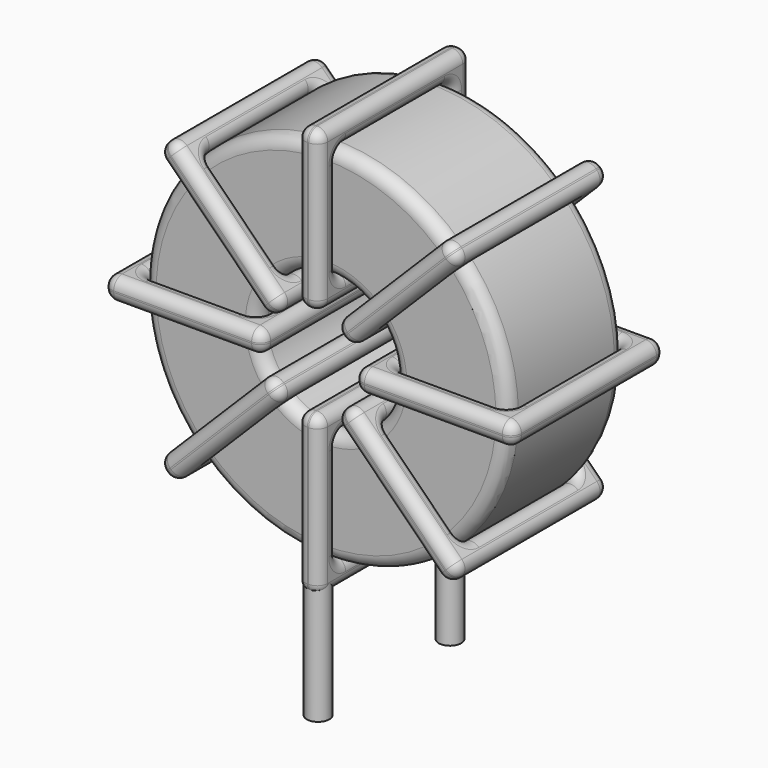
from build123d import *

# Parameters (mm, degrees)
SKETCH001_R       = 0.45
PAD001_DEPTH      = 0.9
PAD001_DEPTH_BACK = 4.4
SKETCH_R          = 7.3
SKETCH_R_2        = 2.733333
PAD_DEPTH         = 2.9
FILLET_R          = 0.5
SKETCH003_W       = 6.366667
SKETCH003_H       = 7.6
SKETCH003_W_2     = 4.566667
SKETCH003_H_2     = 5.8
PAD002_DEPTH      = 0.45
FILLET001_R       = 0.423
SKETCH004_W       = 6.366667
SKETCH004_H       = 7.6
SKETCH004_W_2     = 4.566667
SKETCH004_H_2     = 5.8
PAD003_DEPTH      = 0.45
FILLET002_R       = 0.423
SKETCH005_W       = 6.366667
SKETCH005_H       = 7.6
SKETCH005_W_2     = 4.566667
SKETCH005_H_2     = 5.8
PAD004_DEPTH      = 0.45
FILLET003_R       = 0.423
SKETCH006_W       = 6.366667
SKETCH006_H       = 7.6
SKETCH006_W_2     = 4.566667
SKETCH006_H_2     = 5.8
PAD005_DEPTH      = 0.45
FILLET004_R       = 0.423


with BuildPart() as pad001:
    # Sketch001 → Pad001 (new body, two sides)
    with BuildSketch(Plane.XY.offset(1.4)) as pad001_sk:
        Circle(SKETCH001_R)
        with Locations((0, -6.6)):
            Circle(SKETCH001_R)
    extrude(amount=PAD001_DEPTH)
    extrude(pad001_sk.sketch, amount=-PAD001_DEPTH_BACK)


with BuildPart() as fillet_body:
    # Sketch → Pad (new body, symmetric)
    with BuildSketch(Plane.XZ.offset(3.3)):
        with Locations((0, 9.6)):
            Circle(SKETCH_R)
        with Locations((0, 9.6)):
            Circle(SKETCH_R_2, mode=Mode.SUBTRACT)
    extrude(amount=PAD_DEPTH, both=True)

    # Fillet
    fillet_edges = [fillet_body.edges().sort_by_distance(p)[0] for p in [
        (-2.733333, -6.2, 9.6),
        (-7.3, -6.2, 9.6),
        (-7.3, -0.4, 9.6),
    ]]
    fillet(fillet_edges, radius=FILLET_R)


with BuildPart() as fillet001:
    # Sketch003 → Pad002 (new body, symmetric)
    with BuildSketch(Plane(origin=(0, 0.5, 9.6), x_dir=(1, 0, 0), z_dir=(0, 0, -1))):
        with Locations((-5.016666, 3.8)):
            Rectangle(SKETCH003_W, SKETCH003_H)
        with Locations((-5.016666, 3.8)):
            Rectangle(SKETCH003_W_2, SKETCH003_H_2, mode=Mode.SUBTRACT)
        with Locations((5.016666, 3.8)):
            Rectangle(SKETCH003_W, SKETCH003_H)
        with Locations((5.016666, 3.8)):
            Rectangle(SKETCH003_W_2, SKETCH003_H_2, mode=Mode.SUBTRACT)
    extrude(amount=PAD002_DEPTH, both=True)

    # Fillet001
    fillet001_edges = [fillet001.edges().sort_by_distance(p)[0] for p in [
        (-2.733333, -6.2, 9.6),
        (-2.733333, -0.4, 9.6),
        (-2.733333, -3.3, 10.05),
        (-2.733333, -3.3, 9.15),
        (-8.2, -7.1, 9.6),
        (-1.833333, -7.1, 9.6),
        (-5.016667, -7.1, 10.05),
        (-5.016667, -7.1, 9.15),
        (-1.833333, 0.5, 9.6),
        (-1.833333, -3.3, 10.05),
        (-1.833333, -3.3, 9.15),
        (2.733333, -6.2, 9.6),
        (7.3, -6.2, 9.6),
        (5.016667, -6.2, 10.05),
        (5.016667, -6.2, 9.15),
        (7.3, -0.4, 9.6),
        (7.3, -3.3, 10.05),
        (7.3, -3.3, 9.15),
        (1.833333, -7.1, 9.6),
        (8.2, -7.1, 9.6),
        (5.016667, -7.1, 10.05),
        (5.016667, -7.1, 9.15),
        (8.2, 0.5, 9.6),
        (8.2, -3.3, 10.05),
        (8.2, -3.3, 9.15),
        (-7.3, -6.2, 9.6),
        (-5.016667, -6.2, 10.05),
        (-5.016667, -6.2, 9.15),
        (2.733333, -0.4, 9.6),
        (2.733333, -3.3, 10.05),
        (2.733333, -3.3, 9.15),
        (5.016667, -0.4, 10.05),
        (5.016667, -0.4, 9.15),
        (1.833333, 0.5, 9.6),
        (5.016667, 0.5, 10.05),
        (5.016667, 0.5, 9.15),
        (1.833333, -3.3, 10.05),
        (1.833333, -3.3, 9.15),
        (-8.2, 0.5, 9.6),
        (-5.016667, 0.5, 10.05),
        (-5.016667, 0.5, 9.15),
        (-8.2, -3.3, 10.05),
        (-8.2, -3.3, 9.15),
        (-7.3, -0.4, 9.6),
        (-7.3, -3.3, 10.05),
        (-7.3, -3.3, 9.15),
        (-5.016667, -0.4, 10.05),
        (-5.016667, -0.4, 9.15),
    ]]
    fillet(fillet001_edges, radius=FILLET001_R)


with BuildPart() as fillet002:
    # Sketch004 → Pad003 (new body, symmetric)
    with BuildSketch(Plane(origin=(0, 0.5, 9.6), x_dir=(0.707108, 0, 0.707106), z_dir=(0.707106, 0, -0.707108))):
        with Locations((-5.016666, 3.8)):
            Rectangle(SKETCH004_W, SKETCH004_H)
        with Locations((-5.016666, 3.8)):
            Rectangle(SKETCH004_W_2, SKETCH004_H_2, mode=Mode.SUBTRACT)
        with Locations((5.016666, 3.8)):
            Rectangle(SKETCH004_W, SKETCH004_H)
        with Locations((5.016666, 3.8)):
            Rectangle(SKETCH004_W_2, SKETCH004_H_2, mode=Mode.SUBTRACT)
    extrude(amount=PAD003_DEPTH, both=True)

    # Fillet002
    fillet002_edges = [fillet002.edges().sort_by_distance(p)[0] for p in [
        (5.161885, -6.2, 14.761874),
        (5.161885, -0.4, 14.761874),
        (4.843688, -3.3, 15.080072),
        (5.480083, -3.3, 14.443675),
        (5.798282, 0.5, 15.398269),
        (1.296364, 0.5, 10.896361),
        (3.229125, 0.5, 13.465513),
        (3.865521, 0.5, 12.829116),
        (1.296364, -7.1, 10.896361),
        (0.978166, -3.3, 11.214559),
        (1.614562, -3.3, 10.578163),
        (-5.161885, -6.2, 4.438126),
        (-1.932761, -6.2, 7.667244),
        (-3.865521, -6.2, 6.370884),
        (-3.229125, -6.2, 5.734487),
        (-1.932761, -0.4, 7.667244),
        (-2.250958, -3.3, 7.985442),
        (-1.614563, -3.3, 7.349045),
        (-1.296364, 0.5, 8.303639),
        (-5.798282, 0.5, 3.801731),
        (-3.865521, 0.5, 6.370884),
        (-3.229125, 0.5, 5.734487),
        (-5.798282, -7.1, 3.801731),
        (-6.11648, -3.3, 4.11993),
        (-5.480085, -3.3, 3.483533),
        (1.932761, -6.2, 11.532756),
        (3.229125, -6.2, 13.465513),
        (3.865521, -6.2, 12.829116),
        (-5.161885, -0.4, 4.438126),
        (-5.480083, -3.3, 4.756325),
        (-4.843688, -3.3, 4.119928),
        (-3.865521, -0.4, 6.370884),
        (-3.229125, -0.4, 5.734487),
        (-1.296364, -7.1, 8.303639),
        (-3.865521, -7.1, 6.370884),
        (-3.229125, -7.1, 5.734487),
        (-1.614562, -3.3, 8.621837),
        (-0.978166, -3.3, 7.985441),
        (5.798282, -7.1, 15.398269),
        (3.229125, -7.1, 13.465513),
        (3.865521, -7.1, 12.829116),
        (5.480085, -3.3, 15.716467),
        (6.11648, -3.3, 15.08007),
        (1.932761, -0.4, 11.532756),
        (1.614563, -3.3, 11.850955),
        (2.250958, -3.3, 11.214558),
        (3.229125, -0.4, 13.465513),
        (3.865521, -0.4, 12.829116),
    ]]
    fillet(fillet002_edges, radius=FILLET002_R)


with BuildPart() as fillet003:
    # Sketch005 → Pad004 (new body, symmetric)
    with BuildSketch(Plane(origin=(0, 0.5, 9.6), x_dir=(0.707108, 0, -0.707106), z_dir=(-0.707106, 0, -0.707108))):
        with Locations((-5.016666, 3.8)):
            Rectangle(SKETCH005_W, SKETCH005_H)
        with Locations((-5.016666, 3.8)):
            Rectangle(SKETCH005_W_2, SKETCH005_H_2, mode=Mode.SUBTRACT)
        with Locations((5.016666, 3.8)):
            Rectangle(SKETCH005_W, SKETCH005_H)
        with Locations((5.016666, 3.8)):
            Rectangle(SKETCH005_W_2, SKETCH005_H_2, mode=Mode.SUBTRACT)
    extrude(amount=PAD004_DEPTH, both=True)

    # Fillet003
    fillet003_edges = [fillet003.edges().sort_by_distance(p)[0] for p in [
        (-5.161885, -6.2, 14.761874),
        (-1.932761, -0.4, 11.532756),
        (-3.229125, -0.4, 13.465513),
        (-3.865521, -0.4, 12.829116),
        (-5.798282, -7.1, 15.398269),
        (-5.798282, 0.5, 15.398269),
        (-5.480085, -3.3, 15.716467),
        (-6.11648, -3.3, 15.08007),
        (-1.296364, -7.1, 10.896361),
        (-3.229125, 0.5, 13.465513),
        (-3.865521, 0.5, 12.829116),
        (1.932761, -6.2, 7.667244),
        (5.161885, -6.2, 4.438126),
        (3.865521, -6.2, 6.370884),
        (3.229125, -6.2, 5.734487),
        (5.161885, -0.4, 4.438126),
        (5.480083, -3.3, 4.756325),
        (4.843688, -3.3, 4.119928),
        (1.296364, -7.1, 8.303639),
        (5.798282, -7.1, 3.801731),
        (3.865521, -7.1, 6.370884),
        (3.229125, -7.1, 5.734487),
        (5.798282, 0.5, 3.801731),
        (6.11648, -3.3, 4.11993),
        (5.480085, -3.3, 3.483533),
        (-5.161885, -0.4, 14.761874),
        (-4.843688, -3.3, 15.080072),
        (-5.480083, -3.3, 14.443675),
        (1.932761, -0.4, 7.667244),
        (2.250958, -3.3, 7.985442),
        (1.614563, -3.3, 7.349045),
        (3.865521, -0.4, 6.370884),
        (3.229125, -0.4, 5.734487),
        (1.296364, 0.5, 8.303639),
        (3.865521, 0.5, 6.370884),
        (3.229125, 0.5, 5.734487),
        (1.614562, -3.3, 8.621837),
        (0.978166, -3.3, 7.985441),
        (-1.296364, 0.5, 10.896361),
        (-0.978166, -3.3, 11.214559),
        (-1.614562, -3.3, 10.578163),
        (-3.229125, -7.1, 13.465513),
        (-3.865521, -7.1, 12.829116),
        (-1.932761, -6.2, 11.532756),
        (-3.229125, -6.2, 13.465513),
        (-3.865521, -6.2, 12.829116),
        (-1.614563, -3.3, 11.850955),
        (-2.250958, -3.3, 11.214558),
    ]]
    fillet(fillet003_edges, radius=FILLET003_R)


with BuildPart() as fillet004:
    # Sketch006 → Pad005 (new body, symmetric)
    with BuildSketch(Plane(origin=(0, 0.5, 9.6), x_dir=(0, 0, 1), z_dir=(1, 0, 0))):
        with Locations((-5.016666, 3.8)):
            Rectangle(SKETCH006_W, SKETCH006_H)
        with Locations((-5.016666, 3.8)):
            Rectangle(SKETCH006_W_2, SKETCH006_H_2, mode=Mode.SUBTRACT)
        with Locations((5.016666, 3.8)):
            Rectangle(SKETCH006_W, SKETCH006_H)
        with Locations((5.016666, 3.8)):
            Rectangle(SKETCH006_W_2, SKETCH006_H_2, mode=Mode.SUBTRACT)
    extrude(amount=PAD005_DEPTH, both=True)

    # Fillet004
    fillet004_edges = [fillet004.edges().sort_by_distance(p)[0] for p in [
        (0, -6.2, 6.866667),
        (0, -0.4, 6.866667),
        (-0.45, -3.3, 6.866667),
        (0.45, -3.3, 6.866667),
        (0, -7.1, 1.4),
        (0, -7.1, 7.766667),
        (-0.45, -7.1, 4.583333),
        (0.45, -7.1, 4.583333),
        (0, 0.5, 7.766667),
        (-0.45, -3.3, 7.766667),
        (0.45, -3.3, 7.766667),
        (0, -6.2, 12.333333),
        (0, -6.2, 16.9),
        (-0.45, -6.2, 14.616667),
        (0.45, -6.2, 14.616667),
        (0, -0.4, 16.9),
        (-0.45, -3.3, 16.9),
        (0.45, -3.3, 16.9),
        (0, -7.1, 11.433333),
        (0, -7.1, 17.8),
        (-0.45, -7.1, 14.616667),
        (0.45, -7.1, 14.616667),
        (0, 0.5, 17.8),
        (-0.45, -3.3, 17.8),
        (0.45, -3.3, 17.8),
        (0, -6.2, 2.3),
        (-0.45, -6.2, 4.583333),
        (0.45, -6.2, 4.583333),
        (0, -0.4, 12.333333),
        (-0.45, -3.3, 12.333333),
        (0.45, -3.3, 12.333333),
        (-0.45, -0.4, 14.616667),
        (0.45, -0.4, 14.616667),
        (0, 0.5, 11.433333),
        (-0.45, 0.5, 14.616667),
        (0.45, 0.5, 14.616667),
        (-0.45, -3.3, 11.433333),
        (0.45, -3.3, 11.433333),
        (0, 0.5, 1.4),
        (-0.45, 0.5, 4.583333),
        (0.45, 0.5, 4.583333),
        (-0.45, -3.3, 1.4),
        (0.45, -3.3, 1.4),
        (0, -0.4, 2.3),
        (-0.45, -3.3, 2.3),
        (0.45, -3.3, 2.3),
        (-0.45, -0.4, 4.583333),
        (0.45, -0.4, 4.583333),
    ]]
    fillet(fillet004_edges, radius=FILLET004_R)


solid = Compound([pad001.part, fillet_body.part, fillet001.part, fillet002.part, fillet003.part, fillet004.part])
